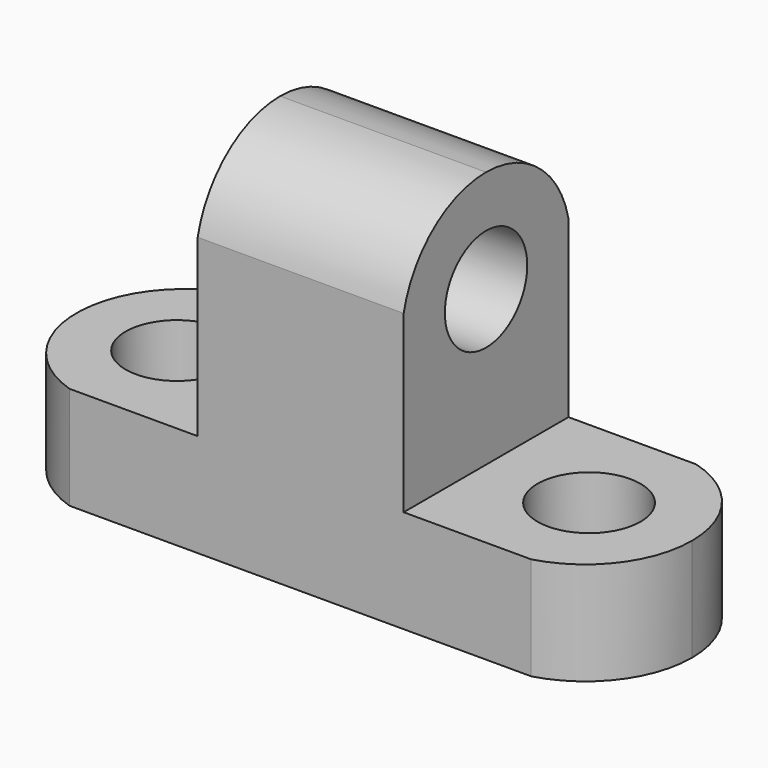
from build123d import *

# Parameters (mm, degrees)
F1_DEPTH  = 25.4
F2_R      = 6.35
F3_DEPTH  = 25.4
F5_DEPTH  = 25.4
F6_R      = 6.35
F7_DEPTH  = 25.4
F8_R      = 6.35
F9_DEPTH  = 25.4
F11_DEPTH = 25.4
F13_DEPTH = 25.4


with BuildPart() as f1:
    # F0 (on Front) → F1 (new body)
    with BuildSketch(Plane.XZ):
        Polygon((0, 12.7), (0, 0), (76.2, 0), (76.2, 12.7), (50.8, 12.7), (50.8, 44.45), (25.4, 44.45), (25.4, 12.7), align=None)
    extrude(amount=F1_DEPTH)

    # F2 (on face) → F3 (cut)
    with BuildSketch(Plane.YZ.offset(50.8)):
        with Locations((-12.7, 31.75)):
            Circle(F2_R)
    extrude(amount=-F3_DEPTH, mode=Mode.SUBTRACT)

    # F4 (on face) → F5 (cut)
    with BuildSketch(Plane.YZ.offset(50.8)):
        with BuildLine():
            ThreePointArc((-25.4, 34.29), (-20.8319677815, 41.5974597269), (-12.7, 44.45))
            Line((-12.7, 44.45), (-25.4, 44.45))
            Line((-25.4, 44.45), (-25.4, 34.29))
        make_face()
        with BuildLine():
            ThreePointArc((-12.7, 44.45), (-4.5680322185, 41.5974597269), (0, 34.29))
            Line((0, 34.29), (0, 44.45))
            Line((0, 44.45), (-12.7, 44.45))
        make_face()
    extrude(amount=-F5_DEPTH, mode=Mode.SUBTRACT)

    # F6 (on face) → F7 (cut)
    with BuildSketch(Plane.XY.offset(12.7)):
        with Locations((63.5, -12.7)):
            Circle(F6_R)
    extrude(amount=-F7_DEPTH, mode=Mode.SUBTRACT)

    # F8 (on face) → F9 (cut)
    with BuildSketch(Plane.XY.offset(12.7)):
        with Locations((12.7, -12.7)):
            Circle(F8_R)
    extrude(amount=-F9_DEPTH, mode=Mode.SUBTRACT)

    # F10 (on face) → F11 (cut)
    with BuildSketch(Plane.XY.offset(12.7)):
        with BuildLine():
            ThreePointArc((66.5324394711, 0), (73.5081244057, -4.719528106), (76.2, -12.6999999989))
            Line((76.2, -12.6999999989), (76.2, 0))
            Line((76.2, 0), (66.5324394711, 0))
        make_face()
        with BuildLine():
            ThreePointArc((76.2, -12.6999999989), (73.5081244064, -20.6804718932), (66.5324394711, -25.4))
            Line((66.5324394711, -25.4), (76.2, -25.4))
            Line((76.2, -25.4), (76.2, -12.6999999989))
        make_face()
    extrude(amount=-F11_DEPTH, mode=Mode.SUBTRACT)

    # F12 (on face) → F13 (cut)
    with BuildSketch(Plane.XY.offset(12.7)):
        with BuildLine():
            ThreePointArc((9.5950094983, -25.4), (0.2534522323, -12.8279951022), (9.240250381, 0))
            Line((9.240250381, 0), (0, 0))
            Line((0, 0), (0, -25.4))
            Line((0, -25.4), (9.5950094983, -25.4))
        make_face()
    extrude(amount=-F13_DEPTH, mode=Mode.SUBTRACT)


solid = f1.part
